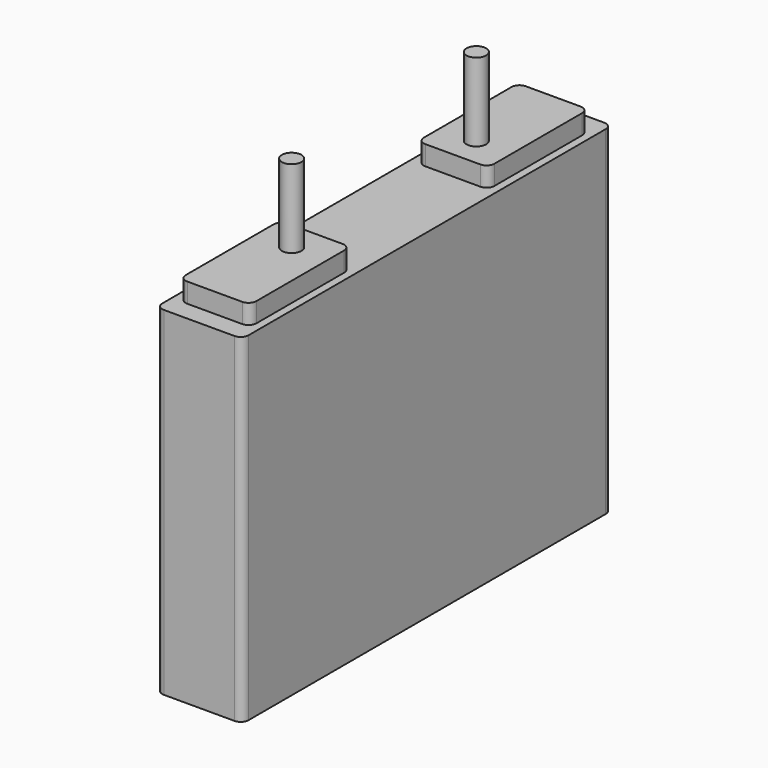
from build123d import *

# Parameters (mm, degrees)
F1_DEPTH = 110
F3_DEPTH = 6.35
F4_R     = 3.175
F5_DEPTH = 25.4


with BuildPart() as f1:
    # F0 (on Top) → F1 (new body)
    with BuildSketch(Plane.XY):
        with BuildLine():
            ThreePointArc((14, 72.46), (13.256051, 74.256051), (11.46, 75))
            Line((11.46, 75), (-11.46, 75))
            ThreePointArc((-11.46, 75), (-13.256051, 74.256051), (-14, 72.46))
            Line((-14, 72.46), (-14, -72.46))
            ThreePointArc((-14, -72.46), (-13.256051, -74.256051), (-11.46, -75))
            Line((-11.46, -75), (11.46, -75))
            ThreePointArc((11.46, -75), (13.256051, -74.256051), (14, -72.46))
            Line((14, -72.46), (14, 72.46))
        make_face()
    extrude(amount=F1_DEPTH)

    # F2 (on face) → F3 (join)
    with BuildSketch(Plane.XY.offset(110)):
        with BuildLine():
            ThreePointArc((-11.46, -66.11), (-10.716051, -67.906051), (-8.92, -68.65))
            Line((-8.92, -68.65), (8.92, -68.65))
            ThreePointArc((8.92, -68.65), (10.716051, -67.906051), (11.46, -66.11))
            Line((11.46, -66.11), (11.46, -30.48))
            ThreePointArc((11.46, -30.48), (10.716051, -28.683949), (8.92, -27.94))
            Line((8.92, -27.94), (-8.92, -27.94))
            ThreePointArc((-8.92, -27.94), (-10.716051, -28.683949), (-11.46, -30.48))
            Line((-11.46, -30.48), (-11.46, -66.11))
        make_face()
        with BuildLine():
            Line((8.92, 68.65), (-8.92, 68.65))
            ThreePointArc((-8.92, 68.65), (-10.716051, 67.906051), (-11.46, 66.11))
            Line((-11.46, 66.11), (-11.46, 30.48))
            ThreePointArc((-11.46, 30.48), (-10.716051, 28.683949), (-8.92, 27.94))
            Line((-8.92, 27.94), (8.92, 27.94))
            ThreePointArc((8.92, 27.94), (10.716051, 28.683949), (11.46, 30.48))
            Line((11.46, 30.48), (11.46, 66.11))
            ThreePointArc((11.46, 66.11), (10.716051, 67.906051), (8.92, 68.65))
        make_face()
    extrude(amount=F3_DEPTH)

    # F4 (on face) → F5 (join)
    with BuildSketch(Plane.XY.offset(116.35)):
        with Locations((0, -37.465)):
            Circle(F4_R)
        with Locations((0, 37.465)):
            Circle(F4_R)
    extrude(amount=F5_DEPTH)


solid = f1.part
